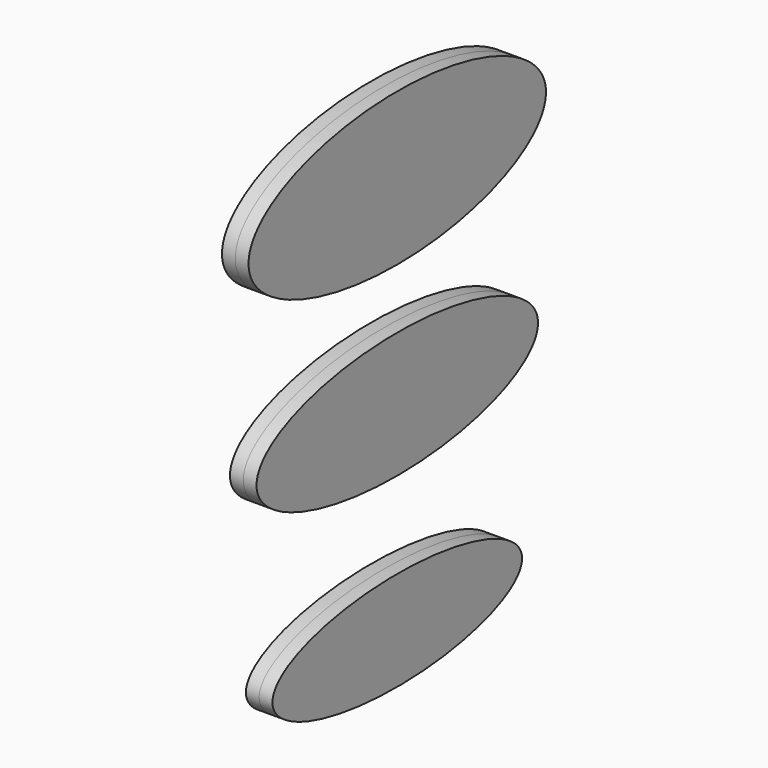
from build123d import *

# Parameters (mm, degrees)
F1_DEPTH = 2


with BuildPart() as f1:
    # F0 (on Right) → F1 (new body, symmetric)
    with BuildSketch(Plane.YZ):
        with BuildLine():
            add(Edge.make_bspline(
                [(26.5, 30), (26.5, 46.4544826719), (-13.25, 38.227241336), (-53, 30), (-13.25, 21.772758664), (26.5, 13.5455173281), (26.5, 30)],
                knots=[0, 0, 0, 2.0943951024, 2.0943951024, 4.1887902048, 4.1887902048, 6.2831853072, 6.2831853072, 6.2831853072], degree=2, weights=[1, 0.5, 1, 0.5, 1, 0.5, 1]))
        make_face()
    extrude(amount=F1_DEPTH, both=True)


with BuildPart() as f1b:
    # F0 (on Right) → F1, piece 2 (new body, symmetric)
    with BuildSketch(Plane.YZ):
        with BuildLine():
            add(Edge.make_bspline(
                [(23.5, 0), (23.5, 12.9903810568), (-11.75, 6.4951905284), (-47, 0), (-11.75, -6.4951905284), (23.5, -12.9903810568), (23.5, 0)],
                knots=[0, 0, 0, 2.0943951024, 2.0943951024, 4.1887902048, 4.1887902048, 6.2831853072, 6.2831853072, 6.2831853072], degree=2, weights=[1, 0.5, 1, 0.5, 1, 0.5, 1]))
        make_face()
    extrude(amount=F1_DEPTH, both=True)


with BuildPart() as f1c:
    # F0 (on Right) → F1, piece 3 (new body, symmetric)
    with BuildSketch(Plane.YZ):
        with BuildLine():
            add(Edge.make_bspline(
                [(28, 60), (28, 79.918584287), (-14, 69.9592921435), (-56, 60), (-14, 50.0407078565), (28, 40.081415713), (28, 60)],
                knots=[0, 0, 0, 2.0943951024, 2.0943951024, 4.1887902048, 4.1887902048, 6.2831853072, 6.2831853072, 6.2831853072], degree=2, weights=[1, 0.5, 1, 0.5, 1, 0.5, 1]))
        make_face()
    extrude(amount=F1_DEPTH, both=True)


solid = Compound([f1.part, f1b.part, f1c.part])
